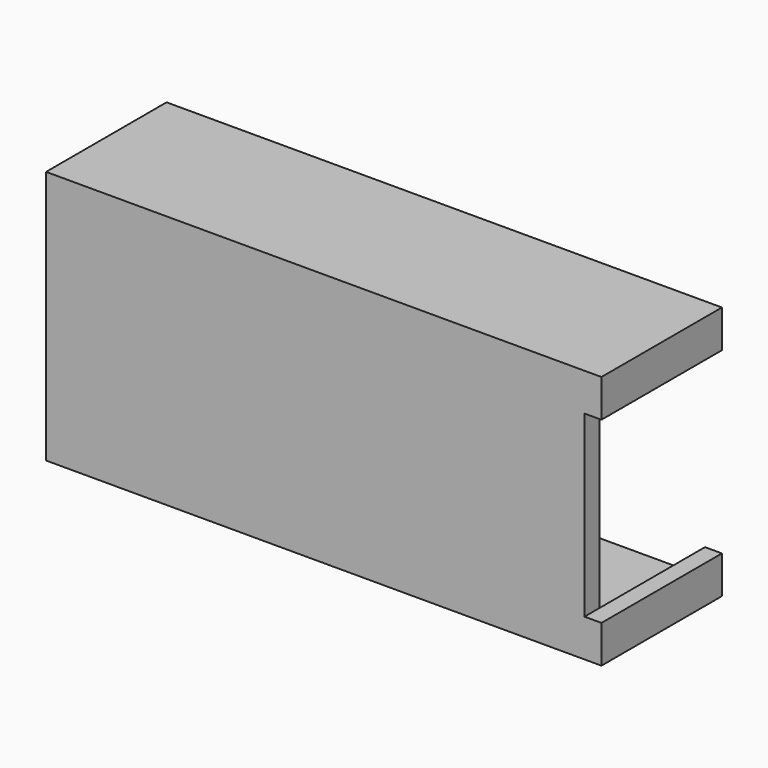
from build123d import *

# Parameters (mm, degrees)
EXTRUDE_DEPTH                     = 10.7
EXTRUDE_ONTO_SKETCH002_ROLL_ANGLE = 90
BOX021_W                          = 1.8
BOX021_H                          = 16
BOX021_DEPTH                      = 4
BOX_W                             = 38.34
BOX_H                             = 14
BOX_DEPTH                         = 2.5
BOX007_W                          = 55.2
BOX007_H                          = 2
BOX007_DEPTH                      = 27
BOX008_W                          = 2
BOX008_H                          = 16
BOX008_DEPTH                      = 27
BOX009_W                          = 1.8
BOX009_H                          = 16
BOX009_DEPTH                      = 4
BOX019_W                          = 13.4
BOX019_H                          = 14
BOX019_DEPTH                      = 1.2
BOX018_W                          = 38.34
BOX018_H                          = 14
BOX018_DEPTH                      = 2.5
BOX020_W                          = 55.2
BOX020_H                          = 14
BOX020_DEPTH                      = 1.4
BOX005_W                          = 13.4
BOX005_H                          = 14
BOX005_DEPTH                      = 1.2


with BuildPart() as motorclipholes:
    # Sketch002 as drawn → Extrude (new)
    with BuildSketch(Plane.XY):
        Polygon((16.24, -0.5), (18.24, -0.5), (18.24, -2.5), align=None)
        Polygon((18.24, 22.1), (18.24, 20.1), (16.24, 20.1), align=None)
    extrude(amount=-EXTRUDE_DEPTH)


with BuildPart() as motorclipholes_1:
    # Extrude onto Sketch002 roll: moved
    add(motorclipholes.part.rotate(Axis((0, 0, 0), (1, 0, 0)), EXTRUDE_ONTO_SKETCH002_ROLL_ANGLE))


with BuildPart() as motorclipholes_2:
    # Extrude onto Sketch002 placement: moved
    add(motorclipholes_1.part.moved(Location((-0.9, -37, 0))))


with BuildPart() as cube020:
    # Box021 → Box021 (new body)
    with BuildSketch(Plane(origin=(35.1, -37, 20), x_dir=(1, 0, 0), z_dir=(0, 0, 1))):
        with Locations((0.9, 8)):
            Rectangle(BOX021_W, BOX021_H)
    extrude(amount=BOX021_DEPTH)


with BuildPart() as cube003:
    # Box → Box (new body)
    with BuildSketch(Plane(origin=(-20.1, -37, -3), x_dir=(1, 0, 0), z_dir=(0, 0, 1))):
        with Locations((19.17, 7)):
            Rectangle(BOX_W, BOX_H)
    extrude(amount=BOX_DEPTH)


with BuildPart() as cube006:
    # Box007 → Box007 (new body)
    with BuildSketch(Plane(origin=(-20.1, -23, -3), x_dir=(1, 0, 0), z_dir=(0, 0, 1))):
        with Locations((27.6, 1)):
            Rectangle(BOX007_W, BOX007_H)
    extrude(amount=BOX007_DEPTH)


with BuildPart() as cube007:
    # Box008 → Box008 (new body)
    with BuildSketch(Plane(origin=(-22.1, -37, -3), x_dir=(1, 0, 0), z_dir=(0, 0, 1))):
        with Locations((1, 8)):
            Rectangle(BOX008_W, BOX008_H)
    extrude(amount=BOX008_DEPTH)


with BuildPart() as cube008:
    # Box009 → Box009 (new body)
    with BuildSketch(Plane(origin=(35.1, -37, -3), x_dir=(1, 0, 0), z_dir=(0, 0, 1))):
        with Locations((0.9, 8)):
            Rectangle(BOX009_W, BOX009_H)
    extrude(amount=BOX009_DEPTH)


with BuildPart() as cube018:
    # Box019 → Box019 (new body)
    with BuildSketch(Plane(origin=(21.7, -37, 21.4), x_dir=(1, 0, 0), z_dir=(0, 0, 1))):
        with Locations((6.7, 7)):
            Rectangle(BOX019_W, BOX019_H)
    extrude(amount=BOX019_DEPTH)


with BuildPart() as cube017:
    # Box018 → Box018 (new body)
    with BuildSketch(Plane(origin=(-20.1, -37, 20.1), x_dir=(1, 0, 0), z_dir=(0, 0, 1))):
        with Locations((19.17, 7)):
            Rectangle(BOX018_W, BOX018_H)
    extrude(amount=BOX018_DEPTH)


with BuildPart() as cube019:
    # Box020 → Box020 (new body)
    with BuildSketch(Plane(origin=(-20.1, -37, 22.6), x_dir=(1, 0, 0), z_dir=(0, 0, 1))):
        with Locations((27.6, 7)):
            Rectangle(BOX020_W, BOX020_H)
    extrude(amount=BOX020_DEPTH)


with BuildPart() as motorholder:
    # Box005 → Box005 (new body)
    with BuildSketch(Plane(origin=(21.7, -37, -3), x_dir=(1, 0, 0), z_dir=(0, 0, 1))):
        with Locations((6.7, 7)):
            Rectangle(BOX005_W, BOX005_H)
    extrude(amount=BOX005_DEPTH)

    # Fusion007: union Cube020, Cube003, Cube006, Cube007, Cube008, Cube018, Cube017, Cube019
    add(cube020.part)
    add(cube003.part)
    add(cube006.part)
    add(cube007.part)
    add(cube008.part)
    add(cube018.part)
    add(cube017.part)
    add(cube019.part)


with BuildPart() as motorholder_1:
    # Fusion007 placement: moved
    add(motorholder.part.moved(Location((-0.9, 0, 0))))

    # Cut017: cut motorClipHoles
    add(motorclipholes_2.part, mode=Mode.SUBTRACT)


with BuildPart() as mirror_of_motorholder:
    # mirror: instance of motorHolder
    add(motorholder_1.part.mirror(Plane(origin=(-23, -21, 0), x_dir=(-1, 0, 0), z_dir=(0, -1, 0))))


with BuildPart() as mirror_of_motorholder_1:
    # mirror placement: moved
    add(mirror_of_motorholder.part.moved(Location((0, 55, 0))))


solid = mirror_of_motorholder_1.part
